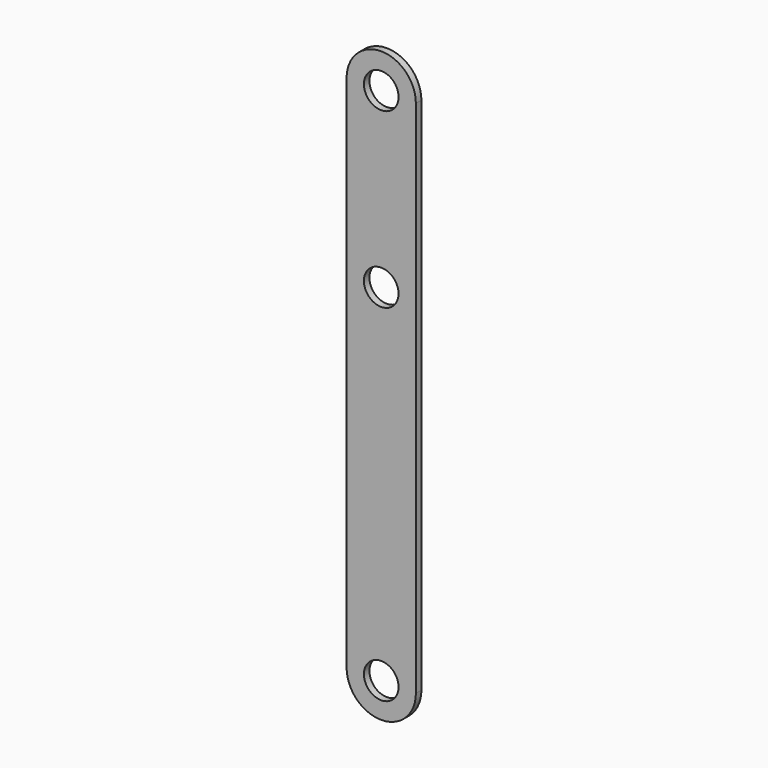
from build123d import *

# Parameters (mm, degrees)
F0_R     = 2.5
F1_DEPTH = 1


with BuildPart() as f1:
    # F0 (on Front) → F1 (new body)
    with BuildSketch(Plane.XZ):
        with BuildLine():
            ThreePointArc((-5, 37.5031), (0, 32.5031), (5, 37.5031))
            ThreePointArc((5, 37.5031), (0, 42.5031), (-5, 37.5031))
        make_face()
        with Locations((0, 37.5031)):
            Circle(F0_R, mode=Mode.SUBTRACT)
        with BuildLine():
            Line((5, -37.5031), (5, 37.5031))
            ThreePointArc((5, 37.5031), (0, 32.5031), (-5, 37.5031))
            Line((-5, 37.5031), (-5, -37.5031))
            ThreePointArc((-5, -37.5031), (0, -32.5031), (5, -37.5031))
        make_face()
        with Locations((0, 12.4969)):
            Circle(F0_R, mode=Mode.SUBTRACT)
        with BuildLine():
            ThreePointArc((-5, -37.5031), (0, -42.5031), (5, -37.5031))
            ThreePointArc((5, -37.5031), (0, -32.5031), (-5, -37.5031))
        make_face()
        with Locations((0, -37.5031)):
            Circle(F0_R, mode=Mode.SUBTRACT)
    extrude(amount=F1_DEPTH)


solid = f1.part
